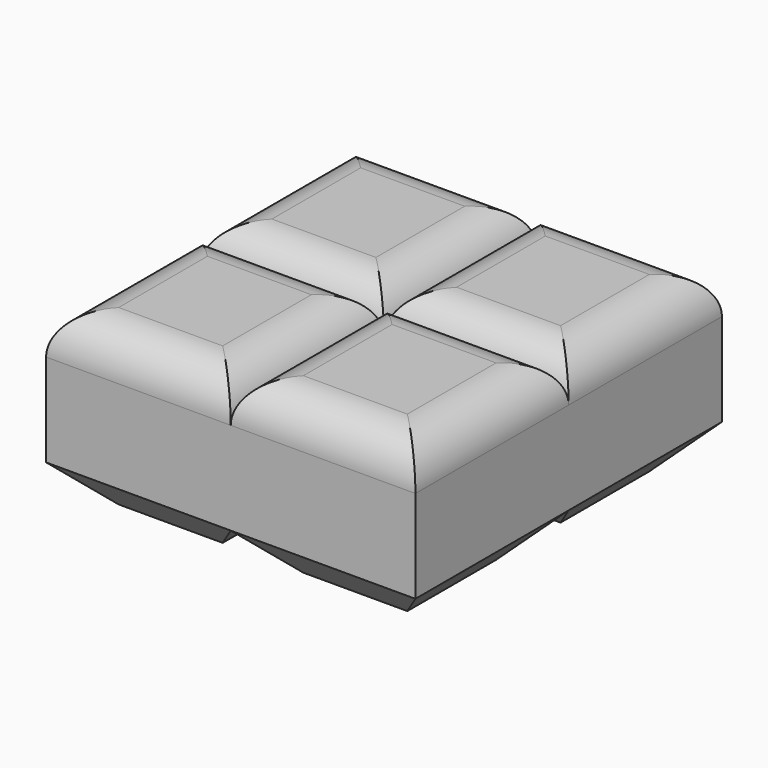
from build123d import *

# Parameters (mm, degrees)
F0_W     = 232.602224
F0_H     = 218.396396
F1_DEPTH = 241.3
F2_R     = 50.8
F3_SIZE  = 50.8
F4_SIZE  = 50.8
F5_SIZE  = 50.8


with BuildPart() as f1:
    # F0 (on Front) → F1 (new body)
    with BuildSketch(Plane.XZ):
        Rectangle(F0_W, F0_H)
    extrude(amount=F1_DEPTH)

    # F2
    f2_edges = [f1.edges().sort_by_distance(p)[0] for p in [
        (116.301112, -120.65, 109.198198),
        (-116.301112, -120.65, 109.198198),
        (0, 0, 109.198198),
        (0, -241.3, 109.198198),
    ]]
    fillet(f2_edges, radius=F2_R)

    # F3
    f3_edges = [f1.edges().sort_by_distance(p)[0] for p in [
        (0, -241.3, -109.198198),
    ]]
    chamfer(f3_edges, length=F3_SIZE)

    # F4
    f4_edges = [f1.edges().sort_by_distance(p)[0] for p in [
        (-116.301112, -95.25, -109.198198),
    ]]
    chamfer(f4_edges, length=F4_SIZE)

    # F5
    f5_edges = [f1.edges().sort_by_distance(p)[0] for p in [
        (25.4, 0, -109.198198),
        (116.301112, -95.25, -109.198198),
    ]]
    chamfer(f5_edges, length=F5_SIZE)

    # F6: F1 across face


with BuildPart() as f1_1:
    add(f1.part)
    add(f1.part.mirror(Plane(origin=(116.301112, -120.65, 0), x_dir=(0, 1, 0), z_dir=(1, 0, 0))))

    # F7: F1 across face


with BuildPart() as f1_2:
    add(f1_1.part)
    add(f1_1.part.mirror(Plane(origin=(116.301112, 0, 0), x_dir=(1, 0, 0), z_dir=(0, 1, 0))))


solid = f1_2.part
